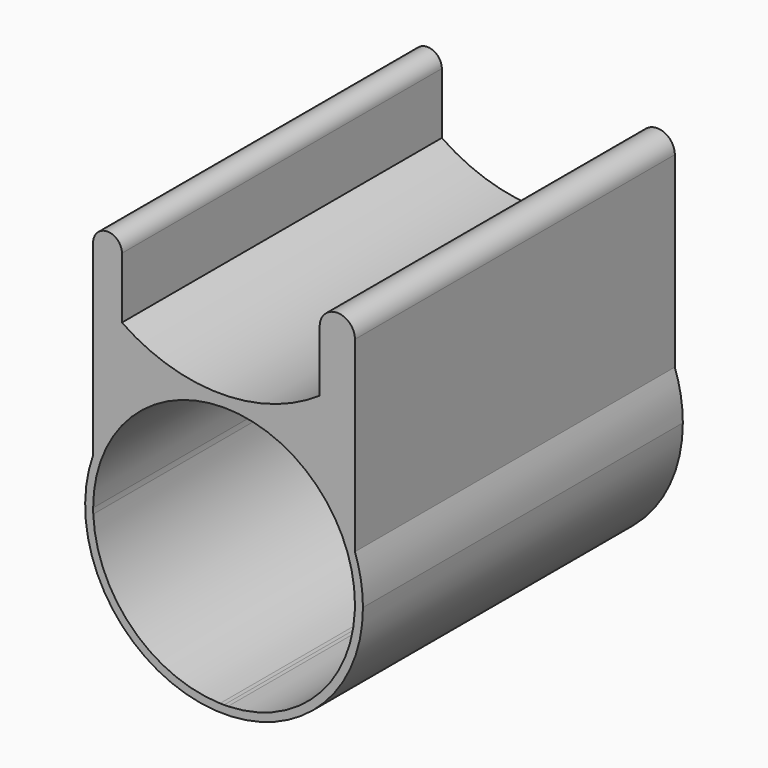
from build123d import *

# Parameters (mm, degrees)
F1_DEPTH = 50
F2_DEPTH = 0.5


with BuildPart() as f1:
    # F0 (on Front) → F1 (new body)
    with BuildSketch(Plane.XZ):
        with BuildLine():
            ThreePointArc((-16.3669006805, 5.8080806951), (0, 17.3669006805), (16.3669006805, 5.8080806951))
            Line((16.3669006805, 5.8080806951), (16.3669006805, 29.203126207))
            ThreePointArc((16.3669006805, 29.203126207), (14.1635060286, 31.406520859), (11.9601113766, 29.203126207))
            Line((11.9601113766, 29.203126207), (11.9601113766, 21.5689279139))
            ThreePointArc((11.9601113766, 21.5689279139), (-0.4043816589, 17.7468433423), (-12.7688746944, 21.5689279139))
            Line((-12.7688746944, 21.5689279139), (-12.7688746944, 29.203126207))
            ThreePointArc((-12.7688746944, 29.203126207), (-14.5678876875, 31.0021392001), (-16.3669006805, 29.203126207))
            Line((-16.3669006805, 29.203126207), (-16.3669006805, 5.8080806951))
        make_face()
        with BuildLine():
            ThreePointArc((-16.3669006805, 0), (0, 16.3669006805), (16.3669006805, 0))
            Line((16.3669006805, 0), (16.3669006805, 5.8080806951))
            ThreePointArc((16.3669006805, 5.8080806951), (0, 17.3669006805), (-16.3669006805, 5.8080806951))
            Line((-16.3669006805, 5.8080806951), (-16.3669006805, 0))
        make_face()
        with BuildLine():
            Line((16.3669006805, 5.8080806951), (16.3669006805, 0))
            ThreePointArc((16.3669006805, 0), (16.3632676287, -0.3448338707), (16.3523700861, -0.689514652))
            ThreePointArc((16.3523700861, -0.689514652), (11.5059044062, -11.6400000723), (0.5, -16.3592615324))
            ThreePointArc((0.5, -16.3592615324), (0.2500291766, -16.3649907821), (0, -16.3669006805))
            ThreePointArc((0, -16.3669006805), (-0.2500291766, -16.3649907821), (-0.5, -16.3592615324))
            ThreePointArc((-0.5, -16.3592615324), (-11.5059044062, -11.6400000723), (-16.3523700861, -0.689514652))
            ThreePointArc((-16.3523700861, -0.689514652), (-16.3632676287, -0.3448338707), (-16.3669006805, 0))
            Line((-16.3669006805, 0), (-16.3669006805, 5.8080806951))
            ThreePointArc((-16.3669006805, 5.8080806951), (-2.9467694753, -17.1150749022), (17.3669006805, 0))
            ThreePointArc((17.3669006805, 0), (17.1150749022, 2.9467694753), (16.3669006805, 5.8080806951))
        make_face()
    extrude(amount=F1_DEPTH)

    # F0 (on Front) → F2 (join)
    with BuildSketch(Plane.XZ):
        with BuildLine():
            Line((0, 0), (-16.3669006805, 0))
            ThreePointArc((-16.3669006805, 0), (-16.3632676287, -0.3448338707), (-16.3523700861, -0.689514652))
            Line((-16.3523700861, -0.689514652), (-0.5, -0.689514652))
            Line((-0.5, -0.689514652), (-0.5, -16.3592615324))
            ThreePointArc((-0.5, -16.3592615324), (-0.2500291766, -16.3649907821), (0, -16.3669006805))
            Line((0, -16.3669006805), (0, 0))
        make_face()
        with BuildLine():
            ThreePointArc((16.3523700861, -0.689514652), (16.3632676287, -0.3448338707), (16.3669006805, 0))
            Line((16.3669006805, 0), (0, 0))
            Line((0, 0), (0, -16.3669006805))
            ThreePointArc((0, -16.3669006805), (0.2500291766, -16.3649907821), (0.5, -16.3592615324))
            Line((0.5, -16.3592615324), (0.5, -0.689514652))
            Line((0.5, -0.689514652), (16.3523700861, -0.689514652))
        make_face()
    extrude(amount=F2_DEPTH)


solid = f1.part
